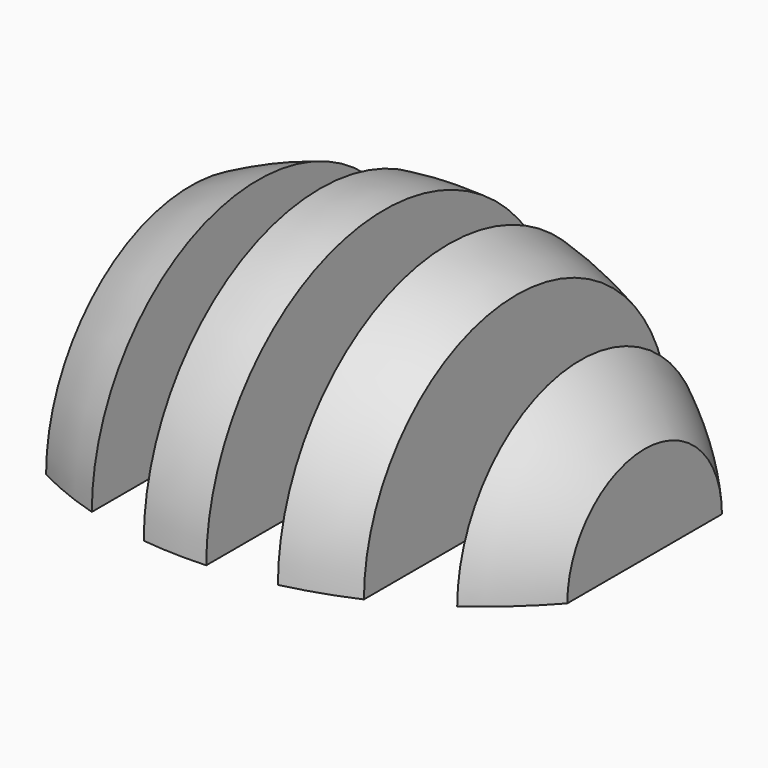
from build123d import *

# Parameters (mm, degrees)
F1_ANGLE_BACK = 90
F1_ANGLE      = 180
F2_T          = -2.54
F2_2_T        = -2.54
F2_3_T        = -2.54
F2_4_T        = -2.54


with BuildPart() as f1:
    # F0 (on Front) → F1 (revolve)
    with BuildSketch(Plane.XZ, mode=Mode.PRIVATE) as f1_sk:
        with BuildLine():
            Line((-53.5775194198, 28.4688780692), (-53.5775194198, -15.9811219308))
            Line((-53.5775194198, -15.9811219308), (-36.9632281363, -15.9811219308))
            Line((-36.9632281363, -15.9811219308), (-36.9632281363, 35.1686341662))
            ThreePointArc((-36.9632281363, 35.1686341662), (-45.4333804746, 32.2229858685), (-53.5775194198, 28.4688780692))
        make_face()
    revolve(f1_sk.sketch.rotate(Axis((2.2889788136, 0, -15.9811219308), (1, 0, 0)), -F1_ANGLE_BACK), axis=Axis((2.2889788136, 0, -15.9811219308), (1, 0, 0)), revolution_arc=F1_ANGLE)

    # F2
    f2_openings = [f1.faces().sort_by_distance(p)[0] for p in [
        (-45.078004, 0, -15.981122),
    ]]
    offset(amount=F2_T, openings=f2_openings)


with BuildPart() as f1b:
    # F0 (on Front) → F1, piece 2 (revolve)
    with BuildSketch(Plane.XZ, mode=Mode.PRIVATE) as f1_sk:
        with BuildLine():
            Line((-21.6850936413, 38.2887220204), (-21.6850936413, -15.9811219308))
            Line((-21.6850936413, -15.9811219308), (-5.914115347, -15.9811219308))
            Line((-5.914115347, -15.9811219308), (-5.914115347, 38.7811607081))
            ThreePointArc((-5.914115347, 38.7811607081), (-13.8101517282, 38.8727300148), (-21.6850936413, 38.2887220204))
        make_face()
    revolve(f1_sk.sketch.rotate(Axis((2.2889788136, 0, -15.9811219308), (1, 0, 0)), -F1_ANGLE_BACK), axis=Axis((2.2889788136, 0, -15.9811219308), (1, 0, 0)), revolution_arc=F1_ANGLE)

    # F2#2
    f2_2_openings = [f1b.faces().sort_by_distance(p)[0] for p in [
        (-13.787799, 0, -15.981122),
    ]]
    offset(amount=F2_2_T, openings=f2_2_openings)


with BuildPart() as f1c:
    # F0 (on Front) → F1, piece 3 (revolve)
    with BuildSketch(Plane.XZ, mode=Mode.PRIVATE) as f1_sk:
        with BuildLine():
            Line((9.9224805802, 36.5299024902), (9.9224805802, -15.9811219308))
            Line((9.9224805802, -15.9811219308), (26.6135204583, -15.9811219308))
            Line((26.6135204583, -15.9811219308), (26.6135204583, 30.9324630885))
            ThreePointArc((26.6135204583, 30.9324630885), (18.4018225103, 34.1302274289), (9.9224805802, 36.5299024902))
        make_face()
    revolve(f1_sk.sketch.rotate(Axis((2.2889788136, 0, -15.9811219308), (1, 0, 0)), -F1_ANGLE_BACK), axis=Axis((2.2889788136, 0, -15.9811219308), (1, 0, 0)), revolution_arc=F1_ANGLE)

    # F2#3
    f2_3_openings = [f1c.faces().sort_by_distance(p)[0] for p in [
        (18.112632, 0, -15.981122),
    ]]
    offset(amount=F2_3_T, openings=f2_3_openings)


with BuildPart() as f1d:
    # F0 (on Front) → F1, piece 4 (revolve)
    with BuildSketch(Plane.XZ, mode=Mode.PRIVATE) as f1_sk:
        with BuildLine():
            Line((42.3844978213, 21.9517709998), (42.3844978213, -15.9811219308))
            Line((42.3844978213, -15.9811219308), (58.155477047, -15.9811219308))
            Line((58.155477047, -15.9811219308), (58.155477047, 7.8022805399))
            ThreePointArc((58.155477047, 7.8022805399), (50.6775458599, 15.3312891572), (42.3844978213, 21.9517709998))
        make_face()
    revolve(f1_sk.sketch.rotate(Axis((2.2889788136, 0, -15.9811219308), (1, 0, 0)), -F1_ANGLE_BACK), axis=Axis((2.2889788136, 0, -15.9811219308), (1, 0, 0)), revolution_arc=F1_ANGLE)

    # F2#4
    f2_4_openings = [f1d.faces().sort_by_distance(p)[0] for p in [
        (49.680697, 0, -15.981122),
    ]]
    offset(amount=F2_4_T, openings=f2_4_openings)


solid = Compound([f1.part, f1b.part, f1c.part, f1d.part])
